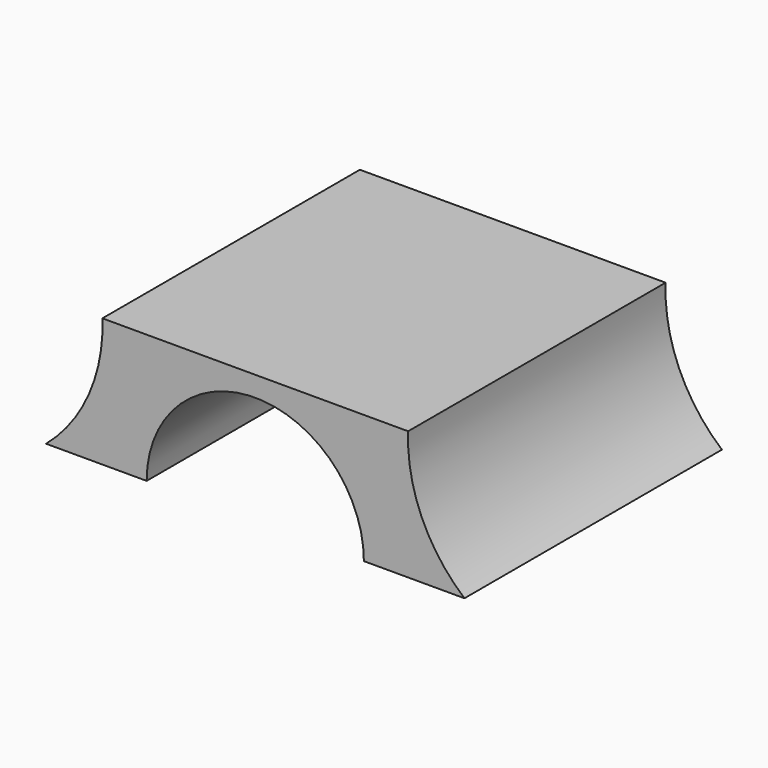
from build123d import *

# Parameters (mm, degrees)
F1_DEPTH = 80


with BuildPart() as f1:
    # F0 (on Front) → F1 (new body)
    with BuildSketch(Plane.XZ):
        with BuildLine():
            ThreePointArc((-27, 0), (0, 27), (27, 0))
            Line((27, 0), (32, 0))
            Line((32, 0), (52, 0))
            ThreePointArc((52, 0), (41.322644, 14.391157), (38, 32))
            Line((38, 32), (0, 32))
            Line((0, 32), (-38, 32))
            ThreePointArc((-38, 32), (-41.322644, 14.391157), (-52, 0))
            Line((-52, 0), (-32, 0))
            Line((-32, 0), (-27, 0))
        make_face()
    extrude(amount=F1_DEPTH)


solid = f1.part
